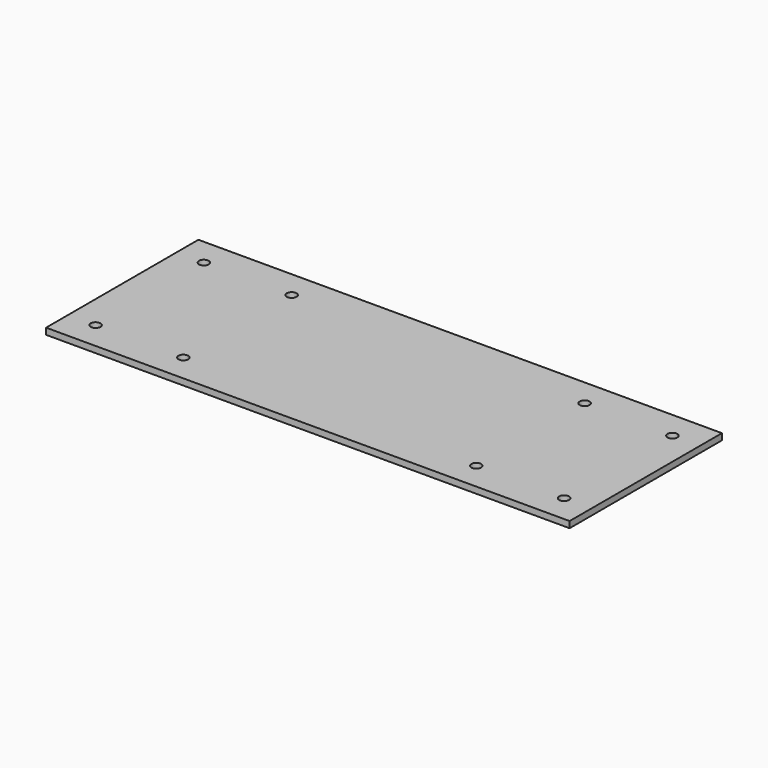
from build123d import *

# Parameters (mm, degrees)
F0_W     = 165
F0_H     = 60
F0_R     = 1.55
F1_DEPTH = 2


with BuildPart() as f1:
    # F0 (on Top) → F1 (new body)
    with BuildSketch(Plane.XY):
        Rectangle(F0_W, F0_H)
        with Locations((-73.8345, -21.3345)):
            Circle(F0_R, mode=Mode.SUBTRACT)
        with Locations((-46.1655, -21.3345)):
            Circle(F0_R, mode=Mode.SUBTRACT)
        with Locations((46.1655, -21.3345)):
            Circle(F0_R, mode=Mode.SUBTRACT)
        with Locations((73.8345, -21.3345)):
            Circle(F0_R, mode=Mode.SUBTRACT)
        with Locations((-73.8345, 21.3345)):
            Circle(F0_R, mode=Mode.SUBTRACT)
        with Locations((-46.1655, 21.3345)):
            Circle(F0_R, mode=Mode.SUBTRACT)
        with Locations((46.1655, 21.3345)):
            Circle(F0_R, mode=Mode.SUBTRACT)
        with Locations((73.8345, 21.3345)):
            Circle(F0_R, mode=Mode.SUBTRACT)
    extrude(amount=F1_DEPTH)


solid = f1.part
